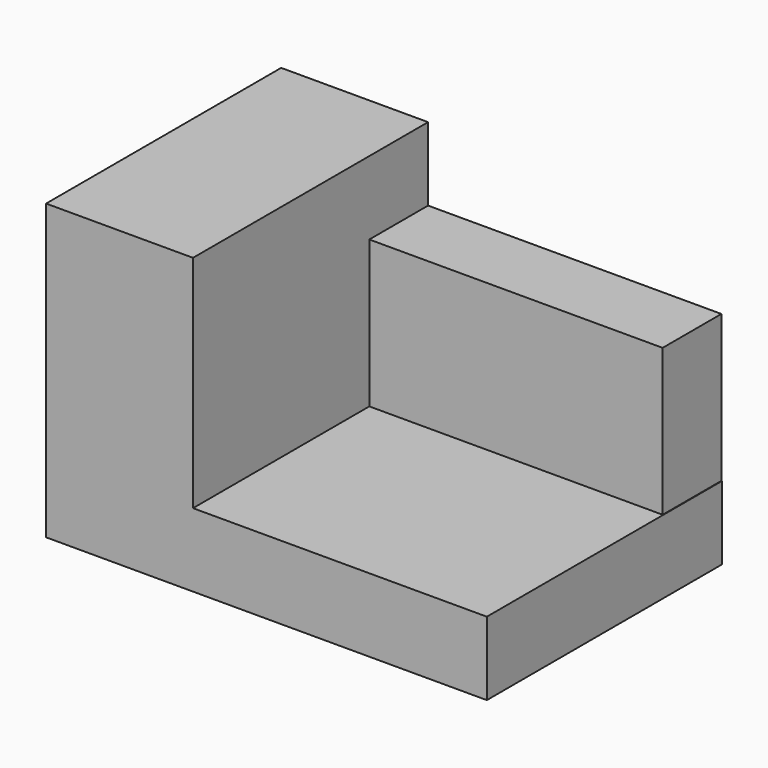
from build123d import *

# Parameters (mm, degrees)
F0_W     = 38.054697
F0_H     = 19.05
F1_DEPTH = 6.35
F2_W     = 25.4
F2_H     = 6.35
F3_DEPTH = 38.1
F4_W     = 25.4
F4_H     = 25.4
F5_DEPTH = 12.7


with BuildPart() as f1:
    # F0 (on Front) → F1 (new body)
    with BuildSketch(Plane.XZ):
        with Locations((19.027348, 9.525)):
            Rectangle(F0_W, F0_H)
    extrude(amount=F1_DEPTH)

    # F2 (on Right) → F3 (join)
    with BuildSketch(Plane.YZ):
        with Locations((-12.7, 3.175)):
            Rectangle(F2_W, F2_H)
    extrude(amount=F3_DEPTH)

    # F4 (on Right) → F5 (join)
    with BuildSketch(Plane.YZ):
        with Locations((-12.7, 12.7)):
            Rectangle(F4_W, F4_H)
    extrude(amount=F5_DEPTH)


solid = f1.part
